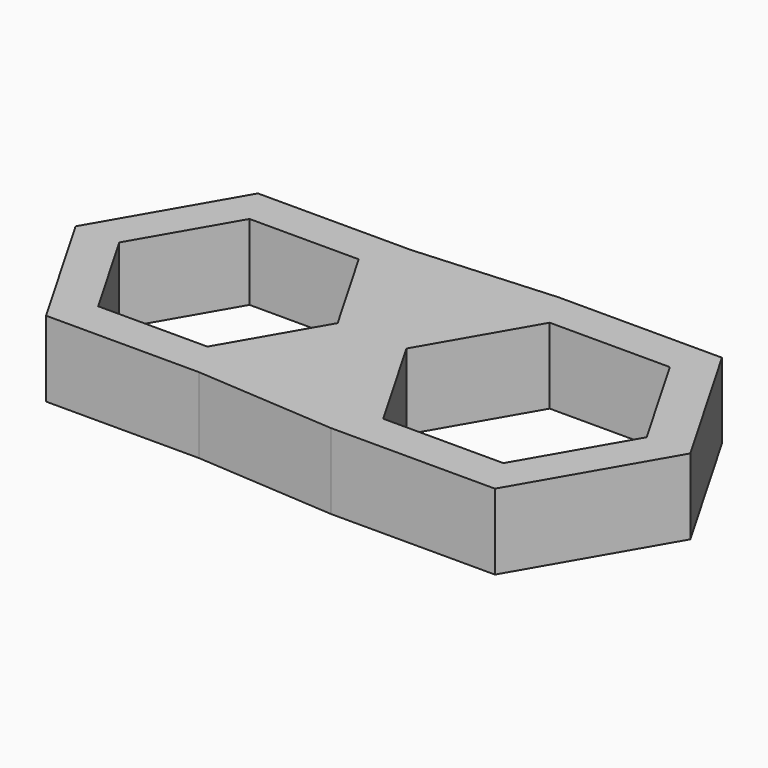
from build123d import *

# Parameters (mm, degrees)
F1_DEPTH = 6.35


with BuildPart() as f1:
    # F0 (on Top) → F1 (new body)
    with BuildSketch(Plane.XY):
        Polygon((-22.481305, -11.1125), (-9.649695, -11.1125), (-4.014272, -1.35166), (-4.794653, 0), (-4.014272, 1.35166), (-9.649695, 11.1125), (-22.481305, 11.1125), (-28.89711, 0), align=None)
        Polygon((-6.900065, 0), (-11.482782, -7.9375), (-20.648218, -7.9375), (-25.230936, 0), (-20.648218, 7.9375), (-11.482782, 7.9375), align=None, mode=Mode.SUBTRACT)
        Polygon((-9.649695, 11.1125), (-4.014272, 1.35166), (2.079423, 11.90625), align=None)
        Polygon((-4.014272, -1.35166), (-9.649695, -11.1125), (2.079423, -11.90625), align=None)
        Polygon((-3.23389, 0), (-4.014272, -1.35166), (2.079423, -11.90625), (15.827577, -11.90625), (22.701653, 0), (15.827577, 11.90625), (2.079423, 11.90625), (-4.014272, 1.35166), align=None)
        Polygon((19.035479, 0), (13.99449, -8.73125), (3.912511, -8.73125), (-1.128479, 0), (3.912511, 8.73125), (13.99449, 8.73125), align=None, mode=Mode.SUBTRACT)
        Polygon((-4.794653, 0), (-4.014272, -1.35166), (-3.23389, 0), (-4.014272, 1.35166), align=None)
    extrude(amount=F1_DEPTH)


solid = f1.part
